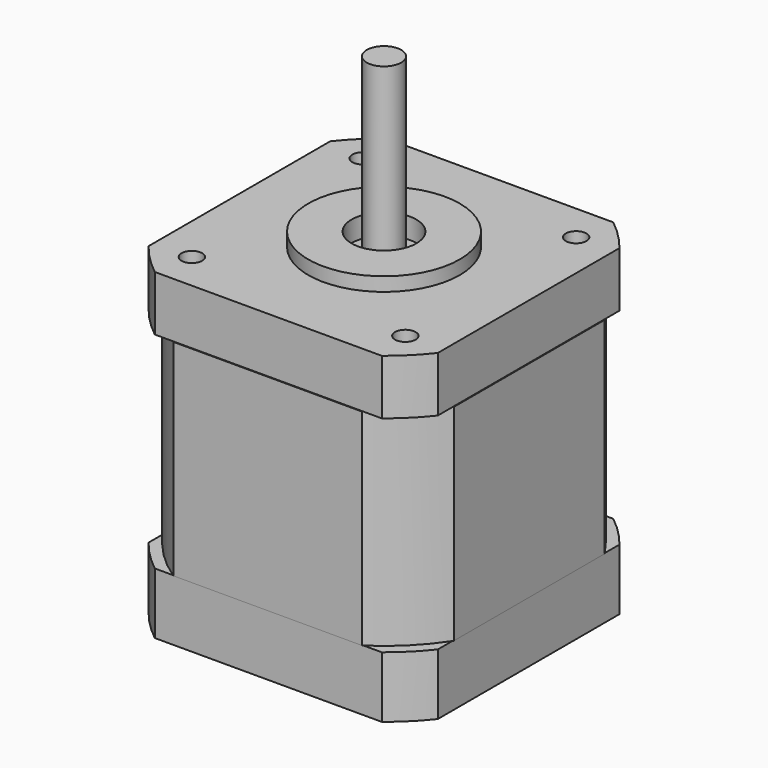
from build123d import *

# Parameters (mm, degrees)
F3_DEPTH       = 8
F6_DEPTH       = 29.9
F8_DEPTH       = 8.9
F9_R           = 11
F9_R_2         = 4.7
F10_DEPTH      = 2
F11_R          = 2.5
F12_DEPTH      = 22.4
F12_DEPTH_BACK = 10
F11_R_2        = 4.7
F13_DEPTH      = 3
F15_D          = 3
F15_DEPTH      = 5
F15_TIP        = 0.9012909285


with BuildPart() as f3:
    # F1 (on Top) → F3 (new body, through all)
    with BuildSketch(Plane.XY):
        with BuildLine():
            ThreePointArc((21, 16.4890873004), (18.8797510577, 18.8797510577), (16.4890873004, 21))
            Line((16.4890873004, 21), (-16.4890873004, 21))
            ThreePointArc((-16.4890873004, 21), (-18.8797510577, 18.8797510577), (-21, 16.4890873004))
            Line((-21, 16.4890873004), (-21, -16.4890873004))
            ThreePointArc((-21, -16.4890873004), (-18.8797510577, -18.8797510577), (-16.4890873004, -21))
            Line((-16.4890873004, -21), (16.4890873004, -21))
            ThreePointArc((16.4890873004, -21), (18.8797510577, -18.8797510577), (21, -16.4890873004))
            Line((21, -16.4890873004), (21, 16.4890873004))
        make_face()
    extrude(amount=-F3_DEPTH)

    # F5 (on offset) → F6 (join, through all)
    with BuildSketch(Plane.XY.offset(-37.9)):
        with BuildLine():
            ThreePointArc((-21.1, -13.6862156932), (-17.7837355468, -17.7837355468), (-13.6862156932, -21.1))
            Line((-13.6862156932, -21.1), (13.6862156932, -21.1))
            ThreePointArc((13.6862156932, -21.1), (17.7837355468, -17.7837355468), (21.1, -13.6862156932))
            Line((21.1, -13.6862156932), (21.1, 13.6862156932))
            ThreePointArc((21.1, 13.6862156932), (17.7837355468, 17.7837355468), (13.6862156932, 21.1))
            Line((13.6862156932, 21.1), (-13.6862156932, 21.1))
            ThreePointArc((-13.6862156932, 21.1), (-17.7837355468, 17.7837355468), (-21.1, 13.6862156932))
            Line((-21.1, 13.6862156932), (-21.1, -13.6862156932))
        make_face()
    extrude(amount=F6_DEPTH)

    # F7 (on offset) → F8 (join)
    with BuildSketch(Plane.XY.offset(-37.9)):
        with BuildLine():
            ThreePointArc((21, 16.4890873004), (18.8797510577, 18.8797510577), (16.4890873004, 21))
            Line((16.4890873004, 21), (-16.4890873004, 21))
            ThreePointArc((-16.4890873004, 21), (-18.8797510577, 18.8797510577), (-21, 16.4890873004))
            Line((-21, 16.4890873004), (-21, -16.4890873004))
            ThreePointArc((-21, -16.4890873004), (-18.8797510577, -18.8797510577), (-16.4890873004, -21))
            Line((-16.4890873004, -21), (16.4890873004, -21))
            ThreePointArc((16.4890873004, -21), (18.8797510577, -18.8797510577), (21, -16.4890873004))
            Line((21, -16.4890873004), (21, 16.4890873004))
        make_face()
    extrude(amount=-F8_DEPTH)

    # F9 (on Top) → F10 (join)
    with BuildSketch(Plane.XY):
        Circle(F9_R)
        Circle(F9_R_2, mode=Mode.SUBTRACT)
    extrude(amount=F10_DEPTH)

    # F11 (on face) → F12 (join, two sides)
    with BuildSketch(Plane.XY.offset(2)) as f12_sk:
        Circle(F11_R)
    extrude(amount=F12_DEPTH)
    extrude(f12_sk.sketch, amount=-F12_DEPTH_BACK)

    # F11 (on face) → F13 (cut)
    with BuildSketch(Plane.XY.offset(2)):
        Circle(F11_R_2)
        Circle(F11_R, mode=Mode.SUBTRACT)
    extrude(amount=-F13_DEPTH, mode=Mode.SUBTRACT)

    # F15
    with Locations(Plane.XY):
        with Locations((-15.5, 15.5), (15.5, 15.5), (15.5, -15.5), (-15.5, -15.5)):
            Hole(F15_D / 2, depth=F15_DEPTH)
            with Locations((0, 0, -(F15_DEPTH + F15_TIP / 2))):  # 118° drill point
                Cone(0, F15_D / 2, F15_TIP, mode=Mode.SUBTRACT)


solid = f3.part
